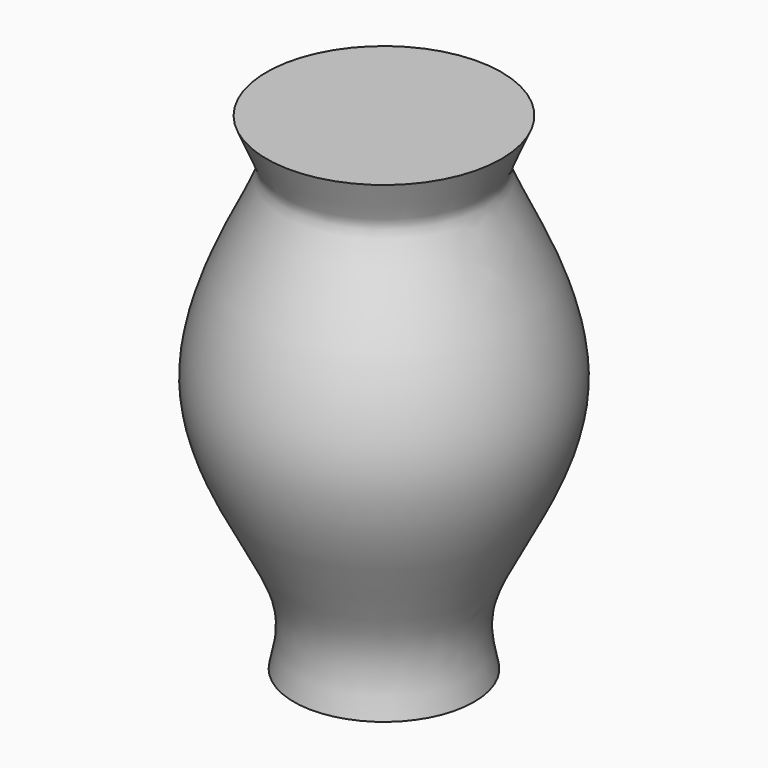
from build123d import *


with BuildPart() as f1:
    # F0 (on Front) → F1 (revolve)
    with BuildSketch(Plane.XZ):
        with BuildLine():
            Line((0, 0), (17.7671760321, 0))
            add(Edge.make_bspline(
                [(17.7671760321, 0), (16.8033275718, 4.220446167), (14.2752355408, 15.2993361505), (41.4234128976, 48.1383113807), (19.4607418738, 83.5931843553), (19.5652148049, 88.4431781106), (21.9388350181, 92.7964973413), (23.1613063604, 95.9778800607)],
                knots=[0, 0, 0, 0, 0.1783277664, 0.4764818705, 0.7650033949, 0.8628988365, 1, 1, 1, 1], degree=3))
            Line((23.1613063604, 95.9778800607), (0, 95.9778800607))
            Line((0, 95.9778800607), (0, 0))
        make_face()
    revolve(axis=Axis((0, 0, 47.9889400303), (0, 0, 1)))


solid = f1.part
